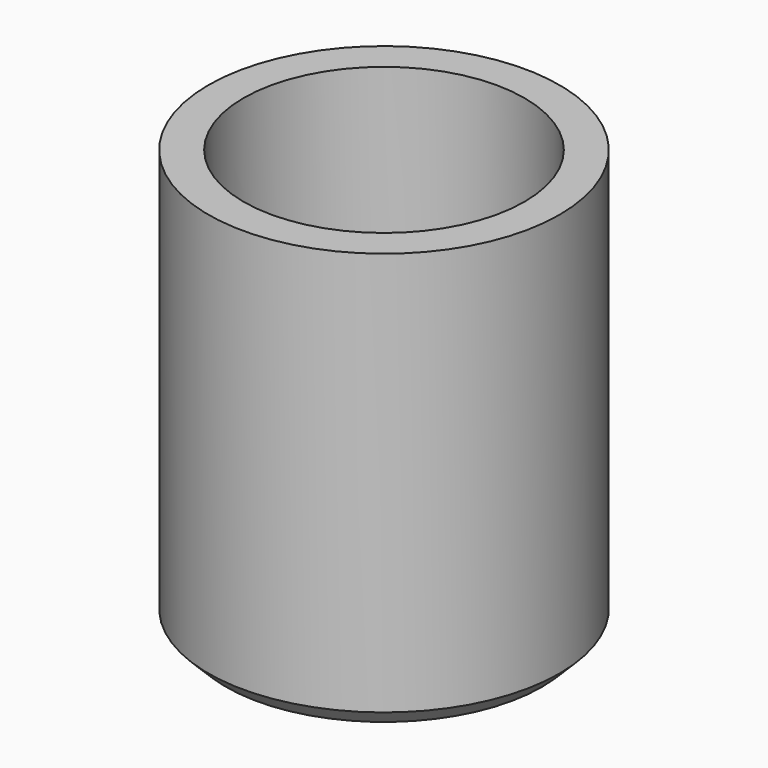
from build123d import *

# Parameters (mm, degrees)
F0_R     = 10
F1_DEPTH = 24
F2_SIZE  = 1
F3_R     = 5.5
F4_DEPTH = 24.001
F5_R     = 8
F6_DEPTH = 16


with BuildPart() as f1:
    # F0 (on Top) → F1 (new body)
    with BuildSketch(Plane.XY):
        Circle(F0_R)
    extrude(amount=F1_DEPTH)

    # F2
    f2_edges = [f1.edges().sort_by_distance(p)[0] for p in [
        (-10, 0, 0),
    ]]
    chamfer(f2_edges, length=F2_SIZE)

    # F3 (on face) → F4 (cut, through all)
    with BuildSketch(Plane.XY.offset(24)):
        Circle(F3_R)
    extrude(amount=-F4_DEPTH, mode=Mode.SUBTRACT)

    # F5 (on face) → F6 (cut)
    with BuildSketch(Plane.XY.offset(24)):
        Circle(F5_R)
    extrude(amount=-F6_DEPTH, mode=Mode.SUBTRACT)


solid = f1.part
